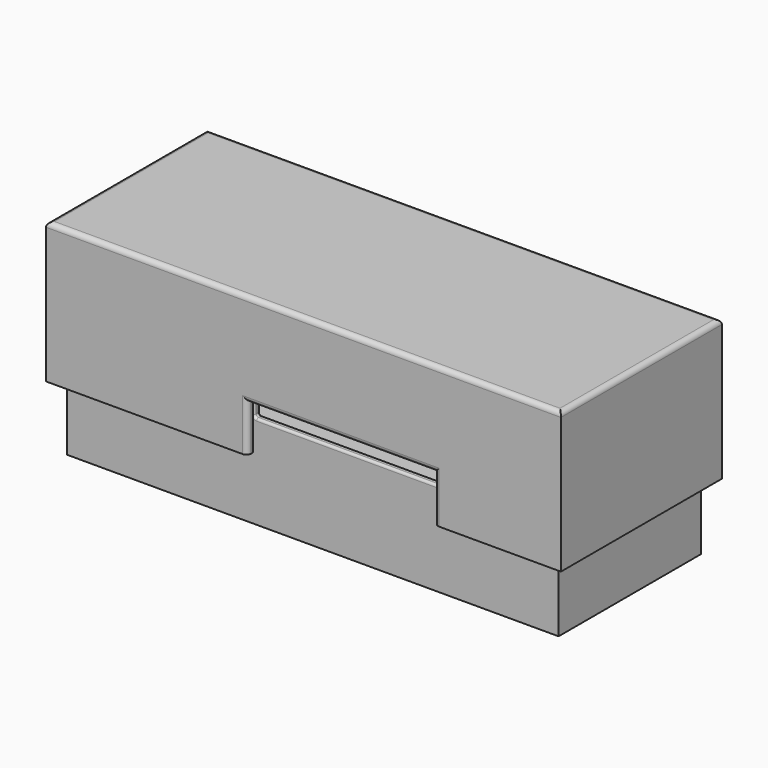
from build123d import *

# Parameters (mm, degrees)
SKETCH_W        = 105
SKETCH_H        = 38
PAD_DEPTH       = 25
SKETCH001_W     = 102
SKETCH001_H     = 35
POCKET_DEPTH    = 23.5
SKETCH002_W     = 1.5
SKETCH002_H     = 25
PAD001_DEPTH    = 15
SKETCH003_W     = 10
SKETCH003_H     = 5
POCKET001_DEPTH = 1.5
SKETCH004_W     = 40
SKETCH004_H     = 5
POCKET002_DEPTH = 1.5
SKETCH005_W     = 20
SKETCH005_H     = 2
POCKET003_DEPTH = 1
SKETCH006_W     = 20
SKETCH006_H     = 2
POCKET004_DEPTH = 1
FILLET_R        = 0.5
SKETCH007_W     = 110
SKETCH007_H     = 43
PAD002_DEPTH    = 30
SKETCH008_W     = 107
SKETCH008_H     = 40
POCKET005_DEPTH = 28.5
SKETCH009_W     = 18
SKETCH009_H     = 3
PAD003_DEPTH    = 2
SKETCH010_W     = 18
SKETCH010_H     = 3
PAD004_DEPTH    = 2
SKETCH011_W     = 40
SKETCH011_H     = 10
POCKET006_DEPTH = 1.5
SKETCH012_W     = 10
SKETCH012_H     = 20
POCKET007_DEPTH = 1.5
CHAMFER_SIZE    = 1.5
FILLET001_R     = 1
FILLET002_R     = 1


with BuildPart() as obj1:
    # Sketch → Pad (new body)
    with BuildSketch(Plane.XY):
        Rectangle(SKETCH_W, SKETCH_H)
    extrude(amount=PAD_DEPTH)

    # Sketch001 (on Face6 of Pad) → Pocket (cut)
    with BuildSketch(Plane.XY.offset(25)):
        Rectangle(SKETCH001_W, SKETCH001_H)
    extrude(amount=-POCKET_DEPTH, mode=Mode.SUBTRACT)

    # Sketch002 (on Face11 of Pocket) → Pad001 (join)
    with BuildSketch(Plane.XY.offset(1.5)):
        with Locations((-41.75, 0)):
            Rectangle(SKETCH002_W, SKETCH002_H)
        with Locations((41.75, 0)):
            Rectangle(SKETCH002_W, SKETCH002_H)
    extrude(amount=PAD001_DEPTH)

    # Sketch003 (on Face1 of Pad001) → Pocket001 (cut)
    with BuildSketch(Plane(origin=(0, 19, 0), x_dir=(-1, 0, 0), z_dir=(0, 1, 0))):
        with Locations((0, 22.5)):
            Rectangle(SKETCH003_W, SKETCH003_H)
    extrude(amount=-POCKET001_DEPTH, mode=Mode.SUBTRACT)

    # Sketch004 (on Face9 of Pocket001) → Pocket002 (cut)
    with BuildSketch(Plane.XZ.offset(19)):
        with Locations((7.5, 22.5)):
            Rectangle(SKETCH004_W, SKETCH004_H)
    extrude(amount=-POCKET002_DEPTH, mode=Mode.SUBTRACT)

    # Sketch005 (on Face4 of Pocket002) → Pocket003 (cut)
    with BuildSketch(Plane.YZ.offset(52.5)):
        with Locations((0, 19)):
            Rectangle(SKETCH005_W, SKETCH005_H)
    extrude(amount=-POCKET003_DEPTH, mode=Mode.SUBTRACT)

    # Sketch006 (on Face3 of Pocket003) → Pocket004 (cut)
    with BuildSketch(Plane(origin=(-52.5, 0, 0), x_dir=(0, -1, 0), z_dir=(-1, 0, 0))):
        with Locations((0, 19)):
            Rectangle(SKETCH006_W, SKETCH006_H)
    extrude(amount=-POCKET004_DEPTH, mode=Mode.SUBTRACT)

    # Fillet
    fillet_edges = [obj1.edges().sort_by_distance(p)[0] for p in [
        (-32.5, -19, 25),
        (-12.5, -18.25, 25),
        (-31.75, -17.5, 25),
        (-51, 0, 25),
        (-28, 17.5, 25),
        (-5, 18.25, 25),
        (-28.75, 19, 25),
        (-52.5, 0, 25),
        (40, -19, 25),
        (52.5, 0, 25),
        (28.75, 19, 25),
        (5, 18.25, 25),
        (28, 17.5, 25),
        (51, 0, 25),
        (39.25, -17.5, 25),
        (27.5, -18.25, 25),
        (7.5, -19, 20),
        (-12.5, -18.25, 20),
        (7.5, -17.5, 20),
        (27.5, -18.25, 20),
        (0, 19, 20),
        (-5, 18.25, 20),
        (5, 18.25, 20),
        (0, 17.5, 20),
        (-12.5, -19, 22.5),
        (-12.5, -17.5, 22.5),
        (27.5, -19, 22.5),
        (27.5, -17.5, 22.5),
        (-5, 19, 22.5),
        (-5, 17.5, 22.5),
        (5, 19, 22.5),
        (5, 17.5, 22.5),
        (41.75, 12.5, 16.5),
        (42.5, 0, 16.5),
        (41.75, -12.5, 16.5),
        (41, 0, 16.5),
        (-41.75, 12.5, 16.5),
        (-41, 0, 16.5),
        (-41.75, -12.5, 16.5),
        (-42.5, 0, 16.5),
    ]]
    fillet(fillet_edges, radius=FILLET_R)


with BuildPart() as obj1_1:
    # Body placement: moved
    add(obj1.part.moved(Location((0, 0, -14))))


with BuildPart() as obj2:
    # Sketch007 → Pad002 (new body)
    with BuildSketch(Plane.XY):
        Rectangle(SKETCH007_W, SKETCH007_H)
    extrude(amount=PAD002_DEPTH)

    # Sketch008 (on Face5 of Pad002) → Pocket005 (cut)
    with BuildSketch(Plane(origin=(0, 0, 0), x_dir=(1, 0, 0), z_dir=(0, 0, -1))):
        Rectangle(SKETCH008_W, SKETCH008_H)
    extrude(amount=-POCKET005_DEPTH, mode=Mode.SUBTRACT)

    # Sketch009 (on Face7 of Pocket005) → Pad003 (join)
    with BuildSketch(Plane.YZ.offset(-53.5)):
        with Locations((0, 1.5)):
            Rectangle(SKETCH009_W, SKETCH009_H)
    extrude(amount=PAD003_DEPTH)

    # Sketch010 (on Face10 of Pad003) → Pad004 (join)
    with BuildSketch(Plane(origin=(53.5, 0, 0), x_dir=(0, -1, 0), z_dir=(-1, 0, 0))):
        with Locations((0, 1.5)):
            Rectangle(SKETCH010_W, SKETCH010_H)
    extrude(amount=PAD004_DEPTH)

    # Sketch011 (on Face6 of Pad004) → Pocket006 (cut)
    with BuildSketch(Plane.XZ.offset(21.5)):
        with Locations((8, 5)):
            Rectangle(SKETCH011_W, SKETCH011_H)
    extrude(amount=-POCKET006_DEPTH, mode=Mode.SUBTRACT)

    # Sketch012 (on Face1 of Pocket006) → Pocket007 (cut)
    with BuildSketch(Plane(origin=(0, 21.5, 0), x_dir=(-1, 0, 0), z_dir=(0, 1, 0))):
        with Locations((0, 10)):
            Rectangle(SKETCH012_W, SKETCH012_H)
    extrude(amount=-POCKET007_DEPTH, mode=Mode.SUBTRACT)

    # Chamfer
    chamfer_edges = [obj2.edges().sort_by_distance(p)[0] for p in [
        (51.5, 0, 0),
        (-51.5, 0, 0),
    ]]
    chamfer(chamfer_edges, length=CHAMFER_SIZE)

    # Fillet001
    fillet001_edges = [obj2.edges().sort_by_distance(p)[0] for p in [
        (0, 21.5, 30),
        (55, 0, 30),
        (0, -21.5, 30),
        (-55, 0, 30),
    ]]
    fillet(fillet001_edges, radius=FILLET001_R)

    # Fillet002
    fillet002_edges = [obj2.edges().sort_by_distance(p)[0] for p in [
        (8, -21.5, 10),
        (-12, -21.5, 5),
        (28, -21.5, 5),
    ]]
    fillet(fillet002_edges, radius=FILLET002_R)


solid = Compound([obj1_1.part, obj2.part])
